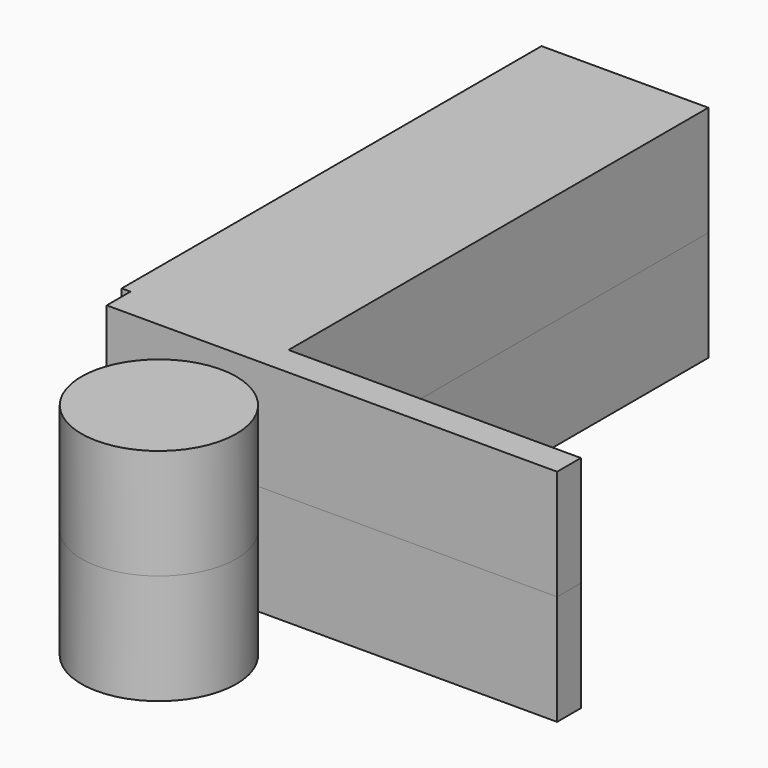
from build123d import *

# Parameters (mm, degrees)
F0_R     = 17.865656
F1_DEPTH = 25.4
F2_DEPTH = 25.4


with BuildPart() as f1:
    # F0 (on Top) → F1 (new body)
    with BuildSketch(Plane.XY):
        Polygon((-61.106101, -40.453333), (42.763606, -40.453333), (42.763606, -33.591986), (-24.665624, -33.591986), (-61.106101, -33.591986), align=None)
        Polygon((-63.131467, -33.591986), (-61.106101, -33.591986), (-24.665624, -33.591986), (-24.665624, 87.423831), (-63.131467, 87.423831), align=None)
        with Locations((-29.444782, -64.988017)):
            Circle(F0_R)
    extrude(amount=-F1_DEPTH)


with BuildPart() as f2:
    # F0 (on Top) → F2 (new body)
    with BuildSketch(Plane.XY):
        Polygon((-61.106101, -40.453333), (42.763606, -40.453333), (42.763606, -33.591986), (-24.665624, -33.591986), (-61.106101, -33.591986), align=None)
        Polygon((-63.131467, -33.591986), (-61.106101, -33.591986), (-24.665624, -33.591986), (-24.665624, 87.423831), (-63.131467, 87.423831), align=None)
        with Locations((-29.444782, -64.988017)):
            Circle(F0_R)
    extrude(amount=F2_DEPTH)


solid = Compound([f1.part, f2.part])
